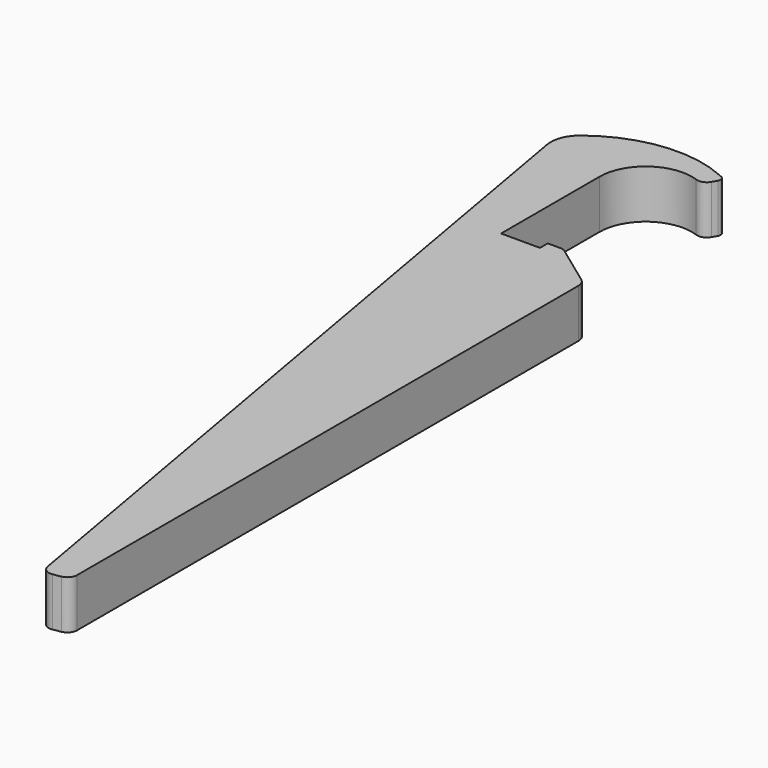
from build123d import *

# Parameters (mm, degrees)
F1_DEPTH = 5


with BuildPart() as f1:
    # F0 (on Top) → F1 (new body)
    with BuildSketch(Plane.XY):
        with BuildLine():
            ThreePointArc((-36.382754, 13.439276), (-34.357765, 17.329882), (-30.009359, 17.903253))
            ThreePointArc((-30.009359, 17.903253), (-29.325445, 17.903391), (-28.801566, 18.343038))
            Line((-28.801566, 18.343038), (-28.51777, 18.834587))
            ThreePointArc((-28.51777, 18.834587), (-28.462101, 19.190368), (-28.659919, 19.491279))
            ThreePointArc((-28.659919, 19.491279), (-28.869444, 19.591708), (-29.080779, 19.68827))
            ThreePointArc((-29.080779, 19.68827), (-35.799832, 20.686028), (-42.065465, 18.062471))
            ThreePointArc((-42.065465, 18.062471), (-43.009564, 16.775937), (-43.160409, 15.187309))
            Line((-43.160409, 15.187309), (-40.591029, 0.615628))
            Line((-40.591029, 0.615628), (-28.639923, -67.162459))
            ThreePointArc((-28.639923, -67.162459), (-28.228692, -67.807963), (-27.481467, -67.973618))
            Line((-27.481467, -67.973618), (-26.684003, -67.833004))
            ThreePointArc((-26.684003, -67.833004), (-26.091607, -67.490984), (-25.857651, -66.848196))
            Line((-25.857651, -66.848196), (-25.857651, -2.406288))
            ThreePointArc((-25.857651, -2.406288), (-25.988058, -1.862256), (-26.350935, -1.436467))
            Line((-26.350935, -1.436467), (-30.51437, 1.59746))
            ThreePointArc((-30.51437, 1.59746), (-30.79361, 1.740114), (-31.1033, 1.789276))
            Line((-31.1033, 1.789276), (-32.382754, 1.789276))
            Line((-32.382754, 1.789276), (-32.382754, 0.789276))
            Line((-32.382754, 0.789276), (-36.382754, 0.789276))
            Line((-36.382754, 0.789276), (-36.382754, 13.439276))
        make_face()
        with BuildLine():
            ThreePointArc((-29.080779, 19.68827), (-28.869444, 19.591708), (-28.659919, 19.491279))
            ThreePointArc((-28.659919, 19.491279), (-28.697075, 19.515438), (-28.736225, 19.536212))
            ThreePointArc((-28.736225, 19.536212), (-28.907441, 19.614644), (-29.080779, 19.68827))
        make_face()
    extrude(amount=F1_DEPTH)


solid = f1.part
